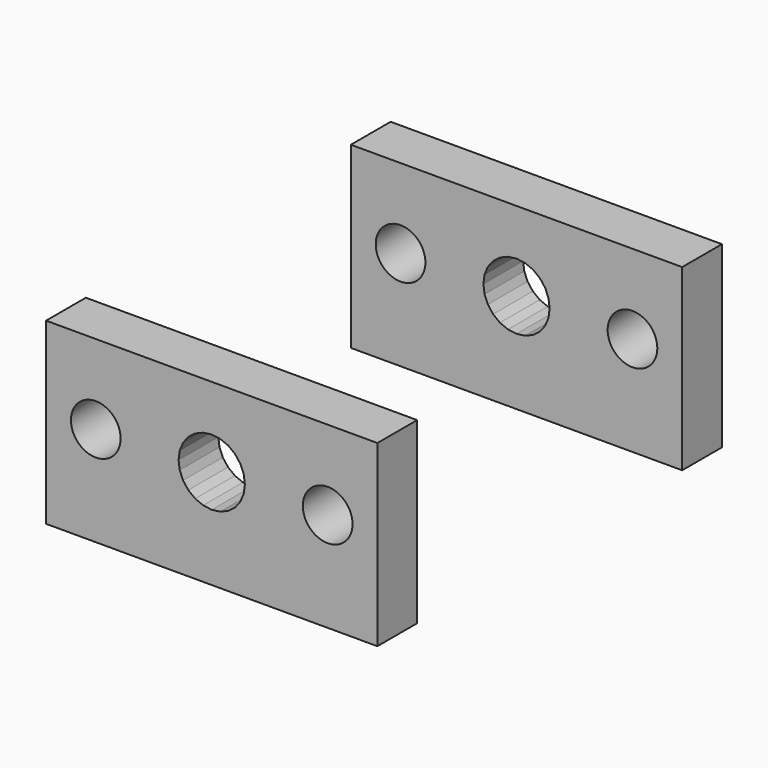
from build123d import *

# Parameters (mm, degrees)
F0_W     = 100
F0_H     = 54.000043
F0_R     = 7.4999996455
F0_R_2   = 7.4999998704
F2_DEPTH = 15


with BuildPart() as f2:
    # F0 (on Front) → F2 (new body)
    with BuildSketch(Plane.XZ):
        with Locations((0, 5e-07)):
            Rectangle(F0_W, F0_H)
        with Locations((-35.0000003918, 2.9999783918)):
            Circle(F0_R, mode=Mode.SUBTRACT)
        Polygon((-5, 11.660233), (-2.588191, 12.659237), (0, 12.999979), (2.58819, 12.659237), (5, 11.660233), (7.071067, 10.071046), (8.660254, 7.999979), (9.659258, 5.588169), (10, 2.999979), (9.659258, 0.411788), (8.660254, -2.000021), (7.071067, -4.071089), (5, -5.660276), (2.58819, -6.65928), (0, -7.000021), (-2.588191, -6.65928), (-5, -5.660276), (-7.071068, -4.071089), (-8.660254, -2.000021), (-9.659259, 0.411788), (-10, 2.999979), (-9.659259, 5.588169), (-8.660254, 7.999979), (-7.071068, 10.071046), align=None, mode=Mode.SUBTRACT)
        with Locations((34.9999998031, 2.9999782651)):
            Circle(F0_R_2, mode=Mode.SUBTRACT)
    extrude(amount=-F2_DEPTH)


with BuildPart() as f3_1:
    # F3: instance of F2
    add(f2.part.mirror(Plane.XZ.offset(50)))


solid = Compound([f2.part, f3_1.part])
